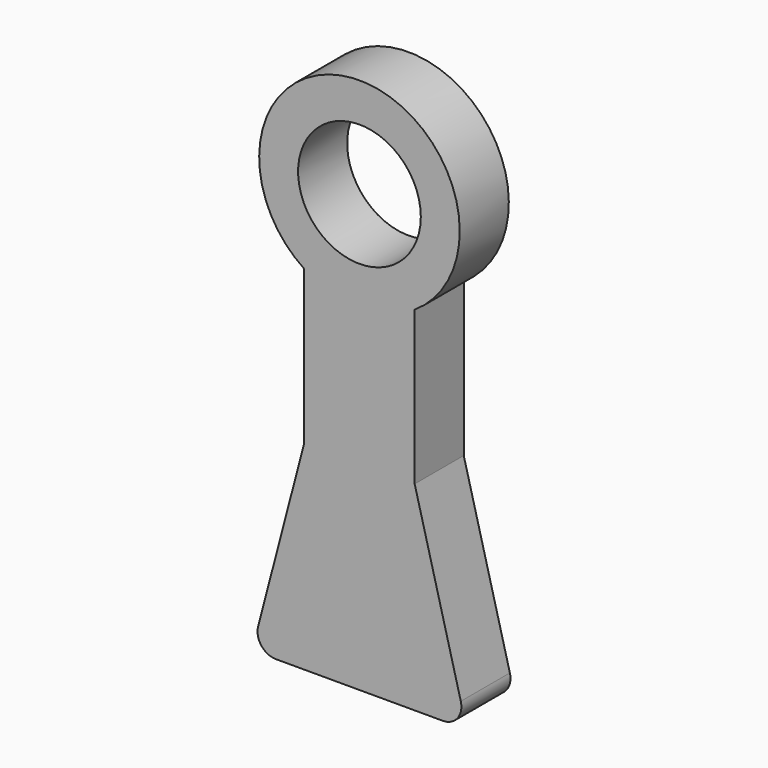
from build123d import *

# Parameters (mm, degrees)
F0_W     = 7
F0_H     = 18
F2_DEPTH = 2
F3_DEPTH = 12.5
F4_R     = 0.6
F5_R     = 0.6
F6_R     = 2
F7_DEPTH = 25


with BuildPart() as f2:
    # F0 (on Front) → F2 (new body)
    with BuildSketch(Plane.XZ):
        Rectangle(F0_W, F0_H)
    extrude(amount=F2_DEPTH)

    # F1 (on face) → F3 (intersect, symmetric)
    with BuildSketch(Plane.XZ):
        with BuildLine():
            Line((-3.5, -9), (3.5, -9))
            Line((3.5, -9), (1.8, -2.5))
            Line((1.8, -2.5), (1.8, 2.5))
            ThreePointArc((1.8, 2.5), (0, 8.4978990818), (-1.8, 2.5))
            Line((-1.8, 2.5), (-1.8, -2.5))
            Line((-1.8, -2.5), (-3.5, -9))
        make_face()
    extrude(amount=F3_DEPTH, both=True, mode=Mode.INTERSECT)

    # F4
    f4_edges = [f2.edges().sort_by_distance(p)[0] for p in [
        (3.5, -1, -9),
    ]]
    fillet(f4_edges, radius=F4_R)

    # F5
    f5_edges = [f2.edges().sort_by_distance(p)[0] for p in [
        (-3.5, -1, -9),
    ]]
    fillet(f5_edges, radius=F5_R)

    # F6 (on face) → F7 (cut)
    with BuildSketch(Plane.XZ.offset(2)):
        with Locations((0, 5.2288549665)):
            Circle(F6_R)
    extrude(amount=-F7_DEPTH, mode=Mode.SUBTRACT)


solid = f2.part
